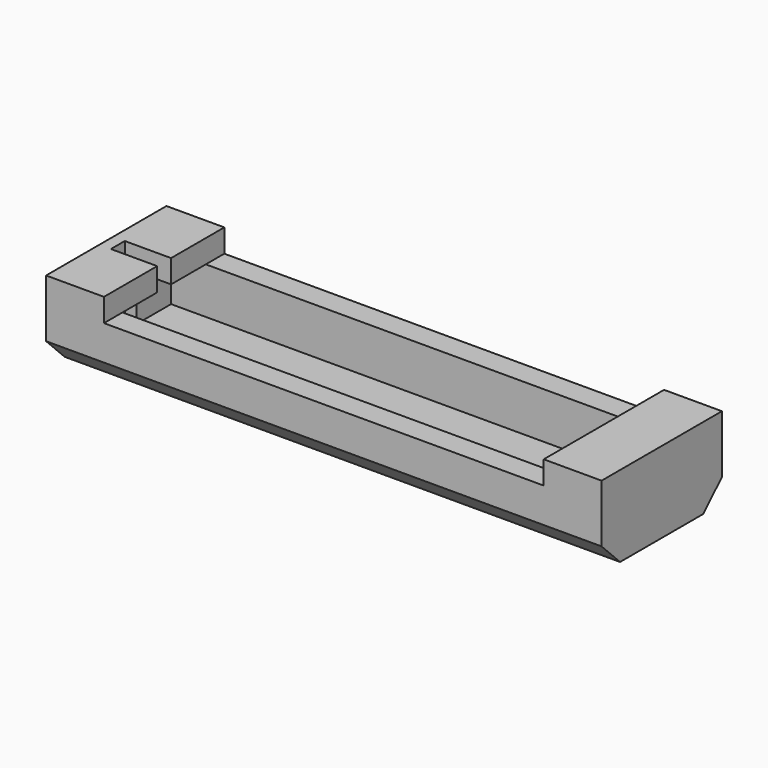
from build123d import *

# Parameters (mm, degrees)
F0_W     = 48
F0_H     = 13
F0_W_2   = 44
F0_H_2   = 9
F1_DEPTH = 4
F2_DEPTH = 1
F3_W     = 3
F3_H     = 9
F4_DEPTH = 2
F5_SIZE  = 2
F6_W     = 1.5
F6_H     = 6
F7_DEPTH = 4


with BuildPart() as f1:
    # F0 (on Top) → F1 (new body)
    with BuildSketch(Plane.XY):
        Rectangle(F0_W, F0_H)
        Rectangle(F0_W_2, F0_H_2, mode=Mode.SUBTRACT)
    extrude(amount=F1_DEPTH)

    # F0 (on Top) → F2 (join)
    with BuildSketch(Plane.XY):
        Rectangle(F0_W, F0_H)
        Rectangle(F0_W_2, F0_H_2, mode=Mode.SUBTRACT)
        Rectangle(F0_W_2, F0_H_2)
    extrude(amount=-F2_DEPTH)

    # F3 (on face) → F4 (join)
    with BuildSketch(Plane.XY.offset(4)):
        Polygon((-19, 4.5), (-19, 6.5), (-24, 6.5), (-24, -6.5), (-19, -6.5), (-19, -4.5), (-22, -4.5), (-22, 4.5), align=None)
        with Locations((-20.5, 0)):
            Rectangle(F3_W, F3_H)
        Polygon((24, 6.5), (19, 6.5), (19, 4.5), (22, 4.5), (22, -4.5), (19, -4.5), (19, -6.5), (24, -6.5), align=None)
        with Locations((20.5, 0)):
            Rectangle(F3_W, F3_H)
    extrude(amount=F4_DEPTH)

    # F5
    f5_edges = [f1.edges().sort_by_distance(p)[0] for p in [
        (0, -6.5, -1),
        (0, 6.5, -1),
    ]]
    chamfer(f5_edges, length=F5_SIZE)

    # F6 (on face) → F7 (cut)
    with BuildSketch(Plane.YZ.offset(-19)):
        with Locations((0, 3)):
            Rectangle(F6_W, F6_H)
    extrude(amount=-F7_DEPTH, mode=Mode.SUBTRACT)


solid = f1.part
